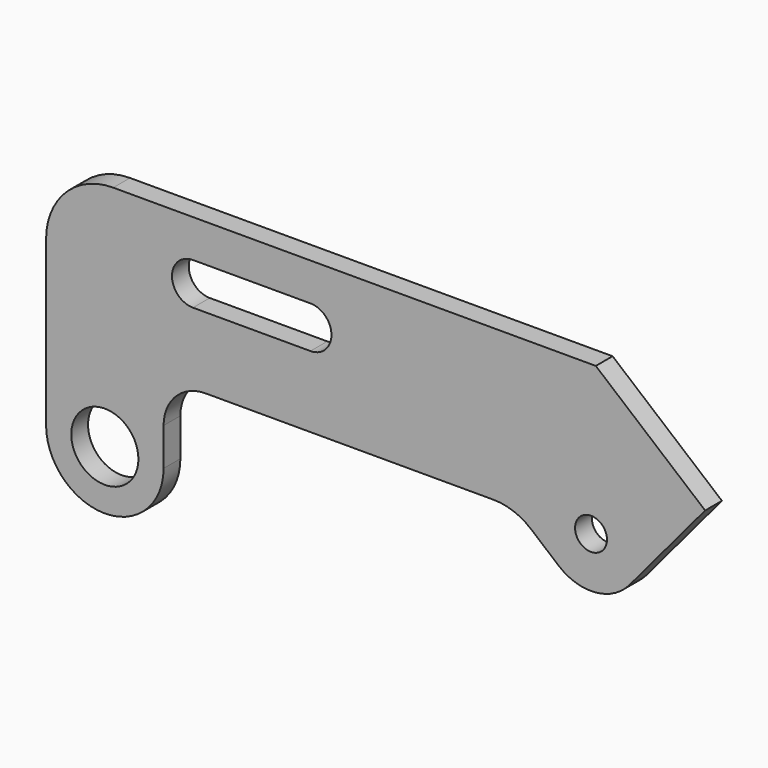
from build123d import *

# Parameters (mm, degrees)
F0_R     = 8
F0_R_2   = 3.8
F1_DEPTH = 5
F2_R     = 10
F3_R     = 14
F4_R     = 16


with BuildPart() as f1:
    # F0 (on Front) → F1 (new body)
    with BuildSketch(Plane.XZ):
        with BuildLine():
            Line((38.056332, 55), (-92.943668, 55))
            Line((-92.943668, 55), (-92.943668, 0))
            ThreePointArc((-92.943668, 0), (-78.943668, -14), (-64.943668, 0))
            Line((-64.943668, 0), (-64.943668, 19))
            Line((-64.943668, 19), (18.730509, 19))
            Line((18.730509, 19), (29.202295, 10.213128))
            ThreePointArc((29.202295, 10.213128), (37.961615, 7.451325), (46.108279, 11.69221))
            Line((46.108279, 11.69221), (64.106332, 33.141455))
            Line((64.106332, 33.141455), (38.056332, 55))
        make_face()
        with Locations((-78.943668, 0)):
            Circle(F0_R, mode=Mode.SUBTRACT)
        with Locations((36.915746, 19.405662)):
            Circle(F0_R_2, mode=Mode.SUBTRACT)
        with BuildLine():
            ThreePointArc((-57.943668, 36), (-62.943668, 41), (-57.943668, 46))
            Line((-57.943668, 46), (-29.943668, 46))
            ThreePointArc((-29.943668, 46), (-24.943668, 41), (-29.943668, 36))
            Line((-29.943668, 36), (-57.943668, 36))
        make_face(mode=Mode.SUBTRACT)
    extrude(amount=F1_DEPTH)

    # F2
    f2_edges = [f1.edges().sort_by_distance(p)[0] for p in [
        (-64.943668, -2.5, 19),
    ]]
    fillet(f2_edges, radius=F2_R)

    # F3
    f3_edges = [f1.edges().sort_by_distance(p)[0] for p in [
        (18.730509, -2.5, 19),
    ]]
    fillet(f3_edges, radius=F3_R)

    # F4
    f4_edges = [f1.edges().sort_by_distance(p)[0] for p in [
        (-92.943668, -2.5, 55),
    ]]
    fillet(f4_edges, radius=F4_R)


solid = f1.part
